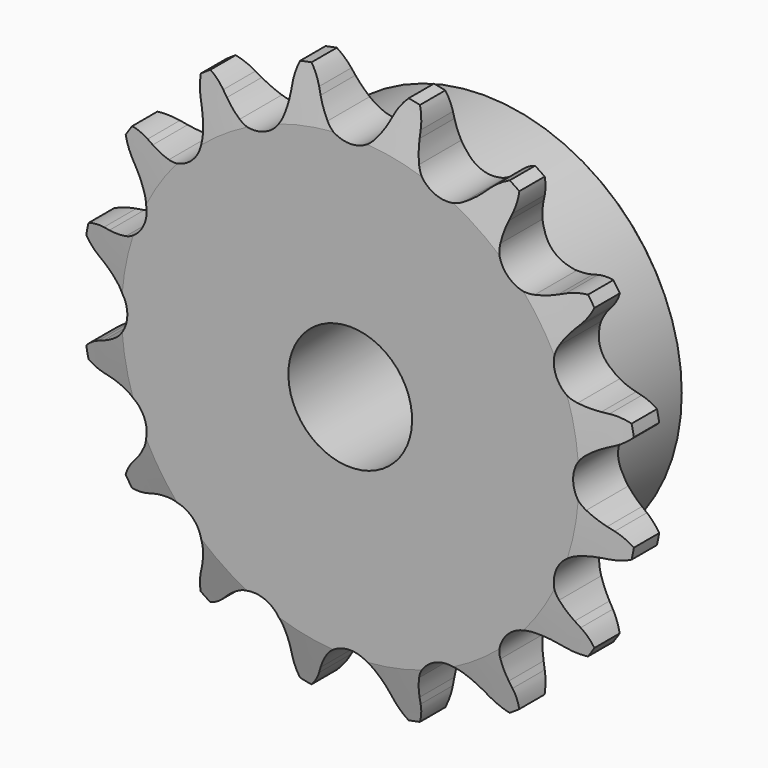
from build123d import *

# Parameters (mm, degrees)
F0_W     = 7.2136
F0_H     = 10.287
F0_H_2   = 17.4625
F0_W_2   = 15.0114
F2_R     = 1.5875
F3_SIZE  = 0.79375
F4_SIZE2 = 6.35
F4_SIZE  = 1.5748
F6_DEPTH = 22.226


with BuildPart() as f1:
    # F0 (on Right) → F1 (revolve)
    with BuildSketch(Plane.YZ):
        with Locations((3.6068, 30.5435)):
            Rectangle(F0_W, F0_H)
        with Locations((3.6068, 16.66875)):
            Rectangle(F0_W, F0_H_2)
        with Locations((14.7193, 16.66875)):
            Rectangle(F0_W_2, F0_H_2)
    revolve(axis=Axis((0, 11.1125, 0), (0, 1, 0)))

    # F2
    f2_edges = [f1.edges().sort_by_distance(p)[0] for p in [
        (0, 7.2136, -25.4),
    ]]
    fillet(f2_edges, radius=F2_R)

    # F3
    f3_edges = [f1.edges().sort_by_distance(p)[0] for p in [
        (0, 22.225, -25.4),
    ]]
    chamfer(f3_edges, length=F3_SIZE)

    # F4
    f4_edges = [f1.edges().sort_by_distance(p)[0] for p in [
        (0, 0, -35.687),
        (0, 7.2136, -35.687),
    ]]
    f4_side = f1.faces().sort_by_distance((0, 3.6068, -35.687))[0]
    chamfer(f4_edges, length=F4_SIZE, length2=F4_SIZE2, reference=f4_side)

    # F5 (on face) → F6 (intersect, through all)
    with BuildSketch(Plane.XZ):
        with BuildLine():
            Line((-4.4491154557, 32.3031532905), (-4.8086431229, 33.1012751164))
            ThreePointArc((-4.8086431229, 33.1012751164), (-5.7770661821, 34.6486769377), (-7.1327732706, 35.8711146287))
            ThreePointArc((-7.1327732706, 35.8711146287), (-7.9137060705, 34.2329723602), (-8.218308823, 32.4439549502))
            Line((-8.218308823, 32.4439549502), (-8.2450410763, 31.5690012491))
            ThreePointArc((-8.2450410763, 31.5690012491), (-8.3668256308, 30.2704534687), (-8.6507487346, 28.9974862709))
            ThreePointArc((-8.6507487346, 28.9974862709), (-10.9342442685, 26.4277558033), (-14.3671139694, 26.6101623444))
            ThreePointArc((-14.3671139694, 26.6101623444), (-15.4680016592, 27.3095221302), (-16.4723282847, 28.1416193871))
            Line((-16.4723282847, 28.1416193871), (-17.1099165376, 28.7414025248))
            ThreePointArc((-17.1099165376, 28.7414025248), (-18.5967878211, 29.8004159357), (-20.3171045036, 30.4109944563))
            ThreePointArc((-20.3171045036, 30.4109944563), (-20.4117024277, 28.5986982988), (-20.0084913533, 26.8292953036))
            Line((-20.0084913533, 26.8292953036), (-19.6983584495, 26.0107134968))
            ThreePointArc((-19.6983584495, 26.0107134968), (-19.3139399851, 24.7644068492), (-19.0891072729, 23.4796858417))
            ThreePointArc((-19.0891072729, 23.4796858417), (-20.2153887837, 20.2317085499), (-23.4567507993, 19.0865278598))
            ThreePointArc((-23.4567507993, 19.0865278598), (-24.7414718069, 19.311360572), (-25.9877784545, 19.6957790364))
            Line((-25.9877784545, 19.6957790364), (-26.8063602612, 20.0059119402))
            ThreePointArc((-26.8063602612, 20.0059119402), (-28.5853170945, 20.415311749), (-30.408340751, 20.3210760543))
            ThreePointArc((-30.408340751, 20.3210760543), (-29.8022021228, 18.6105316692), (-28.7525624525, 17.1301186552))
            Line((-28.7525624525, 17.1301186552), (-28.1527793148, 16.4925304023))
            ThreePointArc((-28.1527793148, 16.4925304023), (-27.3206820579, 15.4882037768), (-26.6213222721, 14.3873160869))
            ThreePointArc((-26.6213222721, 14.3873160869), (-26.4189236095, 10.9555670707), (-28.9753099561, 8.6571425284))
            ThreePointArc((-28.9753099561, 8.6571425284), (-30.2482771539, 8.3732194246), (-31.5468249343, 8.2514348701))
            Line((-31.5468249343, 8.2514348701), (-32.4217786354, 8.2247026168))
            ThreePointArc((-32.4217786354, 8.2247026168), (-34.2219909669, 7.9221614138), (-35.8701827713, 7.1374580341))
            ThreePointArc((-35.8701827713, 7.1374580341), (-34.6555867024, 5.789080298), (-33.1193165609, 4.8230367264))
            Line((-33.1193165609, 4.8230367264), (-32.321194735, 4.4635090592))
            ThreePointArc((-32.321194735, 4.4635090592), (-31.16809795, 3.8540620803), (-30.1006822783, 3.1046078793))
            ThreePointArc((-30.1006822783, 3.1046078793), (-28.6004168039, 0.0115398174), (-30.0826408338, -3.0902142758))
            ThreePointArc((-30.0826408338, -3.0902142758), (-31.1500565056, -3.8396684768), (-32.3031532905, -4.4491154557))
            Line((-32.3031532905, -4.4491154557), (-33.1012751164, -4.8086431229))
            ThreePointArc((-33.1012751164, -4.8086431229), (-34.6486769377, -5.7770661821), (-35.8711146287, -7.1327732706))
            ThreePointArc((-35.8711146287, -7.1327732706), (-34.2329723602, -7.9137060705), (-32.4439549502, -8.218308823))
            Line((-32.4439549502, -8.218308823), (-31.5690012491, -8.2450410763))
            ThreePointArc((-31.5690012491, -8.2450410763), (-30.2704534687, -8.3668256308), (-28.9974862709, -8.6507487346))
            ThreePointArc((-28.9974862709, -8.6507487346), (-26.4277558033, -10.9342442685), (-26.6101623444, -14.3671139694))
            ThreePointArc((-26.6101623444, -14.3671139694), (-27.3095221302, -15.4680016592), (-28.1416193871, -16.4723282847))
            Line((-28.1416193871, -16.4723282847), (-28.7414025248, -17.1099165376))
            ThreePointArc((-28.7414025248, -17.1099165376), (-29.8004159357, -18.5967878211), (-30.4109944563, -20.3171045036))
            ThreePointArc((-30.4109944563, -20.3171045036), (-28.5986982988, -20.4117024277), (-26.8292953036, -20.0084913533))
            Line((-26.8292953036, -20.0084913533), (-26.0107134968, -19.6983584495))
            ThreePointArc((-26.0107134968, -19.6983584495), (-24.7644068492, -19.3139399851), (-23.4796858417, -19.0891072729))
            ThreePointArc((-23.4796858417, -19.0891072729), (-20.2317085499, -20.2153887837), (-19.0865278598, -23.4567507993))
            ThreePointArc((-19.0865278598, -23.4567507993), (-19.311360572, -24.7414718069), (-19.6957790364, -25.9877784545))
            Line((-19.6957790364, -25.9877784545), (-20.0059119402, -26.8063602612))
            ThreePointArc((-20.0059119402, -26.8063602612), (-20.415311749, -28.5853170945), (-20.3210760543, -30.408340751))
            ThreePointArc((-20.3210760543, -30.408340751), (-18.6105316692, -29.8022021228), (-17.1301186552, -28.7525624525))
            Line((-17.1301186552, -28.7525624525), (-16.4925304023, -28.1527793148))
            ThreePointArc((-16.4925304023, -28.1527793148), (-15.4882037768, -27.3206820579), (-14.3873160869, -26.6213222721))
            ThreePointArc((-14.3873160869, -26.6213222721), (-10.9555670707, -26.4189236095), (-8.6571425284, -28.9753099561))
            ThreePointArc((-8.6571425284, -28.9753099561), (-8.3732194246, -30.2482771539), (-8.2514348701, -31.5468249343))
            Line((-8.2514348701, -31.5468249343), (-8.2247026168, -32.4217786354))
            ThreePointArc((-8.2247026168, -32.4217786354), (-7.9221614138, -34.2219909669), (-7.1374580341, -35.8701827713))
            ThreePointArc((-7.1374580341, -35.8701827713), (-5.789080298, -34.6555867024), (-4.8230367264, -33.1193165609))
            Line((-4.8230367264, -33.1193165609), (-4.4635090592, -32.321194735))
            ThreePointArc((-4.4635090592, -32.321194735), (-3.8540620803, -31.16809795), (-3.1046078793, -30.1006822783))
            ThreePointArc((-3.1046078793, -30.1006822783), (-0.0115398174, -28.6004168039), (3.0902142758, -30.0826408338))
            ThreePointArc((3.0902142758, -30.0826408338), (3.8396684768, -31.1500565056), (4.4491154557, -32.3031532905))
            Line((4.4491154557, -32.3031532905), (4.8086431229, -33.1012751164))
            ThreePointArc((4.8086431229, -33.1012751164), (5.7770661821, -34.6486769377), (7.1327732706, -35.8711146287))
            ThreePointArc((7.1327732706, -35.8711146287), (7.9137060705, -34.2329723602), (8.218308823, -32.4439549502))
            Line((8.218308823, -32.4439549502), (8.2450410763, -31.5690012491))
            ThreePointArc((8.2450410763, -31.5690012491), (8.3668256308, -30.2704534687), (8.6507487346, -28.9974862709))
            ThreePointArc((8.6507487346, -28.9974862709), (10.9342442685, -26.4277558033), (14.3671139694, -26.6101623444))
            ThreePointArc((14.3671139694, -26.6101623444), (15.4680016592, -27.3095221302), (16.4723282847, -28.1416193871))
            Line((16.4723282847, -28.1416193871), (17.1099165376, -28.7414025248))
            ThreePointArc((17.1099165376, -28.7414025248), (18.5967878211, -29.8004159357), (20.3171045036, -30.4109944563))
            ThreePointArc((20.3171045036, -30.4109944563), (20.4117024277, -28.5986982988), (20.0084913533, -26.8292953036))
            Line((20.0084913533, -26.8292953036), (19.6983584495, -26.0107134968))
            ThreePointArc((19.6983584495, -26.0107134968), (19.3139399851, -24.7644068492), (19.0891072729, -23.4796858417))
            ThreePointArc((19.0891072729, -23.4796858417), (20.2153887837, -20.2317085499), (23.4567507993, -19.0865278598))
            ThreePointArc((23.4567507993, -19.0865278598), (24.7414718069, -19.311360572), (25.9877784545, -19.6957790364))
            Line((25.9877784545, -19.6957790364), (26.8063602612, -20.0059119402))
            ThreePointArc((26.8063602612, -20.0059119402), (28.5853170945, -20.415311749), (30.408340751, -20.3210760543))
            ThreePointArc((30.408340751, -20.3210760543), (29.8022021228, -18.6105316692), (28.7525624525, -17.1301186552))
            Line((28.7525624525, -17.1301186552), (28.1527793148, -16.4925304023))
            ThreePointArc((28.1527793148, -16.4925304023), (27.3206820579, -15.4882037768), (26.6213222721, -14.3873160869))
            ThreePointArc((26.6213222721, -14.3873160869), (26.4189236095, -10.9555670707), (28.9753099561, -8.6571425284))
            ThreePointArc((28.9753099561, -8.6571425284), (30.2482771539, -8.3732194246), (31.5468249343, -8.2514348701))
            Line((31.5468249343, -8.2514348701), (32.4217786354, -8.2247026168))
            ThreePointArc((32.4217786354, -8.2247026168), (34.2219909669, -7.9221614138), (35.8701827713, -7.1374580341))
            ThreePointArc((35.8701827713, -7.1374580341), (34.6555867024, -5.789080298), (33.1193165609, -4.8230367264))
            Line((33.1193165609, -4.8230367264), (32.321194735, -4.4635090592))
            ThreePointArc((32.321194735, -4.4635090592), (31.16809795, -3.8540620803), (30.1006822783, -3.1046078793))
            ThreePointArc((30.1006822783, -3.1046078793), (28.6004168039, -0.0115398174), (30.0826408338, 3.0902142758))
            ThreePointArc((30.0826408338, 3.0902142758), (31.1500565056, 3.8396684768), (32.3031532905, 4.4491154557))
            Line((32.3031532905, 4.4491154557), (33.1012751164, 4.8086431229))
            ThreePointArc((33.1012751164, 4.8086431229), (34.6486769377, 5.7770661821), (35.8711146287, 7.1327732706))
            ThreePointArc((35.8711146287, 7.1327732706), (34.2329723602, 7.9137060705), (32.4439549502, 8.218308823))
            Line((32.4439549502, 8.218308823), (31.5690012491, 8.2450410763))
            ThreePointArc((31.5690012491, 8.2450410763), (30.2704534687, 8.3668256308), (28.9974862709, 8.6507487346))
            ThreePointArc((28.9974862709, 8.6507487346), (26.4277558033, 10.9342442685), (26.6101623444, 14.3671139694))
            ThreePointArc((26.6101623444, 14.3671139694), (27.3095221302, 15.4680016592), (28.1416193871, 16.4723282847))
            Line((28.1416193871, 16.4723282847), (28.7414025248, 17.1099165376))
            ThreePointArc((28.7414025248, 17.1099165376), (29.8004159357, 18.5967878211), (30.4109944563, 20.3171045036))
            ThreePointArc((30.4109944563, 20.3171045036), (28.5986982988, 20.4117024277), (26.8292953036, 20.0084913533))
            Line((26.8292953036, 20.0084913533), (26.0107134968, 19.6983584495))
            ThreePointArc((26.0107134968, 19.6983584495), (24.7644068492, 19.3139399851), (23.4796858417, 19.0891072729))
            ThreePointArc((23.4796858417, 19.0891072729), (20.2317085499, 20.2153887837), (19.0865278598, 23.4567507993))
            ThreePointArc((19.0865278598, 23.4567507993), (19.311360572, 24.7414718069), (19.6957790364, 25.9877784545))
            Line((19.6957790364, 25.9877784545), (20.0059119402, 26.8063602612))
            ThreePointArc((20.0059119402, 26.8063602612), (20.415311749, 28.5853170945), (20.3210760543, 30.408340751))
            ThreePointArc((20.3210760543, 30.408340751), (18.6105316692, 29.8022021228), (17.1301186552, 28.7525624525))
            Line((17.1301186552, 28.7525624525), (16.4925304023, 28.1527793148))
            ThreePointArc((16.4925304023, 28.1527793148), (15.4882037768, 27.3206820579), (14.3873160869, 26.6213222721))
            ThreePointArc((14.3873160869, 26.6213222721), (10.9555670707, 26.4189236095), (8.6571425284, 28.9753099561))
            ThreePointArc((8.6571425284, 28.9753099561), (8.3732194246, 30.2482771539), (8.2514348701, 31.5468249343))
            Line((8.2514348701, 31.5468249343), (8.2247026168, 32.4217786354))
            ThreePointArc((8.2247026168, 32.4217786354), (7.9221614138, 34.2219909669), (7.1374580341, 35.8701827713))
            ThreePointArc((7.1374580341, 35.8701827713), (5.789080298, 34.6555867024), (4.8230367264, 33.1193165609))
            Line((4.8230367264, 33.1193165609), (4.4635090592, 32.321194735))
            ThreePointArc((4.4635090592, 32.321194735), (3.8540620803, 31.16809795), (3.1046078793, 30.1006822783))
            ThreePointArc((3.1046078793, 30.1006822783), (0.0115398174, 28.6004168039), (-3.0902142758, 30.0826408338))
            ThreePointArc((-3.0902142758, 30.0826408338), (-3.8396684768, 31.1500565056), (-4.4491154557, 32.3031532905))
        make_face()
    extrude(amount=-F6_DEPTH, mode=Mode.INTERSECT)


solid = f1.part
